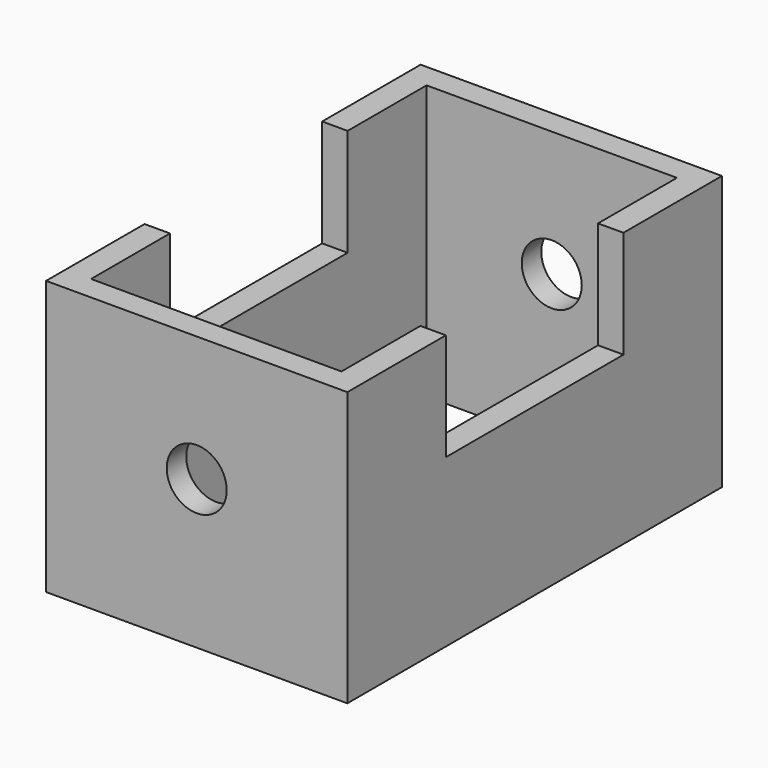
from build123d import *

# Parameters (mm, degrees)
F0_W     = 85.1905047894
F0_H     = 132.3906481266
F0_W_2   = 70.8002224565
F0_H_2   = 118.5759752989
F1_DEPTH = 88.392
F2_W     = 62.7876967192
F2_H     = 41.029587388
F3_DEPTH = 85.1915047894
F4_DEPTH = 10.922
F5_R     = 8.4882818578
F6_DEPTH = 132.3916481266


with BuildPart() as f1:
    # F0 (on Top) → F1 (new body)
    with BuildSketch(Plane.XY):
        Rectangle(F0_W, F0_H)
        Rectangle(F0_W_2, F0_H_2, mode=Mode.SUBTRACT)
    extrude(amount=F1_DEPTH)

    # F2 (on face) → F3 (cut, through all)
    with BuildSketch(Plane(origin=(-42.5952523947, 0, 0), x_dir=(0, -1, 0), z_dir=(-1, 0, 0))):
        with Locations((0, 67.6403790712)):
            Rectangle(F2_W, F2_H)
    extrude(amount=-F3_DEPTH, mode=Mode.SUBTRACT)

    # F4 (cut): a face of the model
    f4_faces = [f1.faces().sort_by_distance(p)[0] for p in [
        (0, -64.6210081542, 88.392),
    ]]
    extrude(f4_faces, amount=-F4_DEPTH, mode=Mode.SUBTRACT)

    # F5 (on face) → F6 (cut, through all)
    with BuildSketch(Plane.XZ.offset(66.1953240633)):
        with Locations((0, 41.9554561377)):
            Circle(F5_R)
    extrude(amount=-F6_DEPTH, mode=Mode.SUBTRACT)


solid = f1.part
